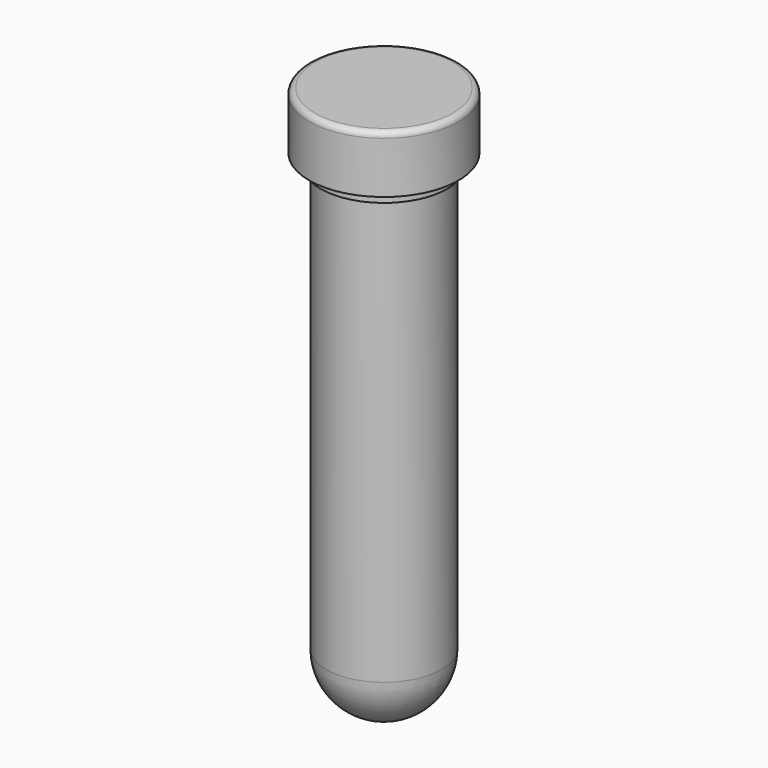
from build123d import *

# Parameters (mm, degrees)
F4_R = 0.5


with BuildPart() as f1:
    # F0 (on Front) → F1 (revolve)
    with BuildSketch(Plane.XZ):
        with BuildLine():
            Line((-5.5, -0.472584), (-5, -0.472584))
            Line((-5, -0.472584), (-5, -37.470958))
            ThreePointArc((-5, -37.470958), (-3.535534, -41.006492), (0, -42.470958))
            Line((0, -42.470958), (0, -41.970958))
            ThreePointArc((0, -41.970958), (-3.181981, -40.652939), (-4.5, -37.470958))
            Line((-4.5, -37.470958), (-4.5, 2.504139))
            Line((-4.5, 2.504139), (-5.5, 2.5))
            Line((-5.5, 2.5), (-5.5, 0))
            Line((-5.5, 0), (-5.5, -0.472584))
        make_face()
    revolve(axis=Axis((0, 0, -13.258269), (0, 0, 1)))


with BuildPart() as f3:
    # F2 (on Front) → F3 (revolve)
    with BuildSketch(Plane.XZ):
        Polygon((0, 2.5), (0, 5.5), (-6.5, 5.5), (-6.5, 0.5), (-5.5, 0.5), (-5.5, 2.5), align=None)
    revolve(axis=Axis((0, 0, 2.100606), (0, 0, 1)))

    # F4
    f4_edges = [f3.edges().sort_by_distance(p)[0] for p in [
        (6.5, 0, 5.5),
    ]]
    fillet(f4_edges, radius=F4_R)


solid = Compound([f1.part, f3.part])
